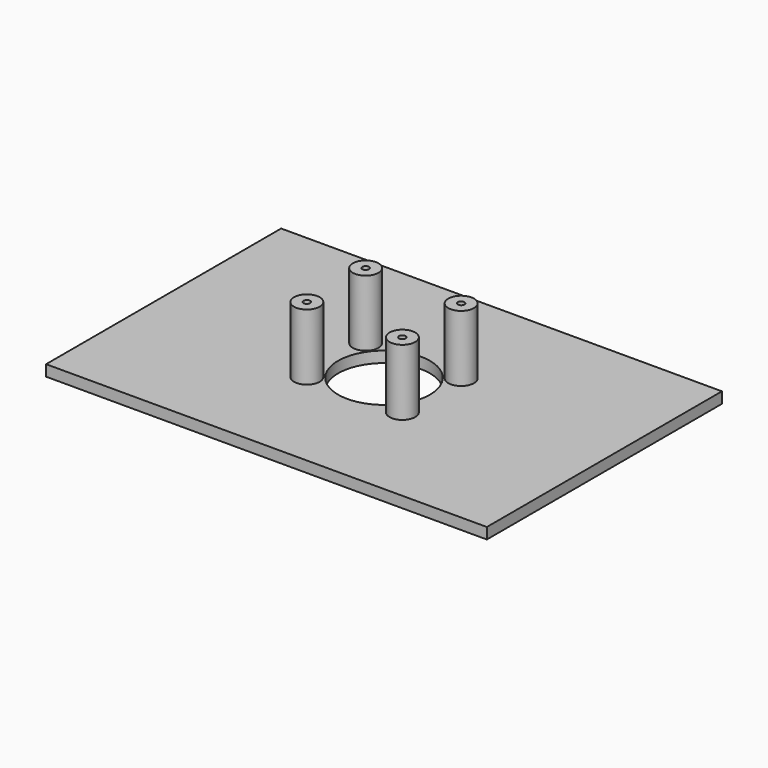
from build123d import *

# Parameters (mm, degrees)
F0_W     = 120
F0_H     = 80
F0_R     = 12.5
F1_DEPTH = 3
F2_R     = 3.5
F3_DEPTH = 18
F4_R     = 0.9
F5_DEPTH = 7


with BuildPart() as f1:
    # F0 (on Top) → F1 (new body)
    with BuildSketch(Plane.XY):
        Rectangle(F0_W, F0_H)
        Circle(F0_R, mode=Mode.SUBTRACT)
    extrude(amount=F1_DEPTH)

    # F2 (on face) → F3 (join)
    with BuildSketch(Plane.XY.offset(3)):
        with Locations((-13, 10)):
            Circle(F2_R)
        with Locations((13, 10)):
            Circle(F2_R)
        with Locations((13, -10)):
            Circle(F2_R)
        with Locations((-13, -10)):
            Circle(F2_R)
    extrude(amount=F3_DEPTH)

    # F4 (on face) → F5 (cut)
    with BuildSketch(Plane.XY.offset(21)):
        with Locations((-13, 10)):
            Circle(F4_R)
        with Locations((13, 10)):
            Circle(F4_R)
        with Locations((13, -10)):
            Circle(F4_R)
        with Locations((-13, -10)):
            Circle(F4_R)
    extrude(amount=-F5_DEPTH, mode=Mode.SUBTRACT)


solid = f1.part
